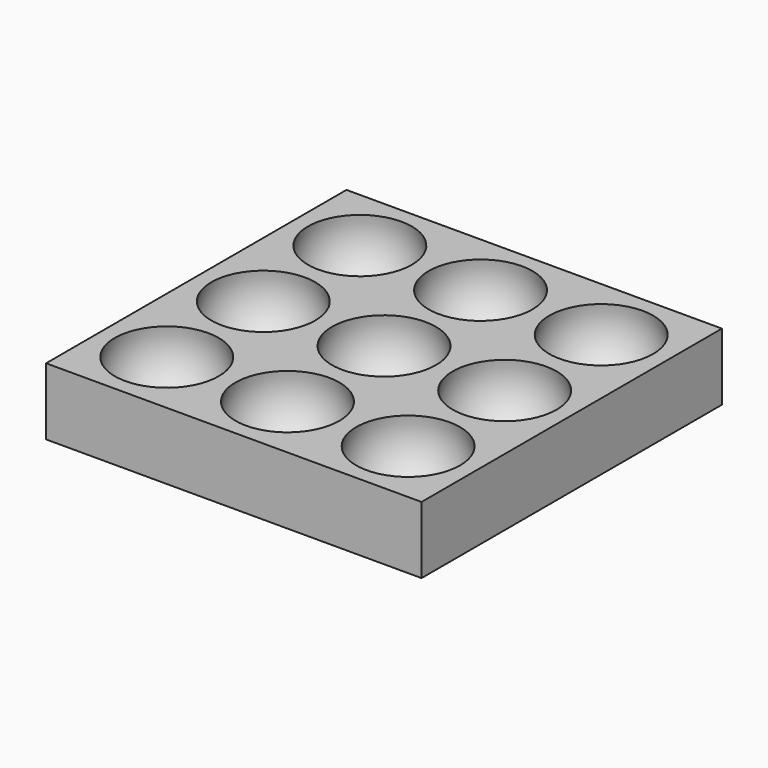
from build123d import *

# Parameters (mm, degrees)
ARRAY_X_COUNT = 3
ARRAY_X_PITCH = 18
ARRAY_Y_COUNT = 3
ARRAY_Y_PITCH = 18
BOX_W         = 56
BOX_H         = 56
BOX_DEPTH     = 10


with BuildPart() as array:
    # Sphere → Sphere (revolve)
    with BuildSketch(Plane(origin=(0, 0, 8), x_dir=(1, 0, 0), z_dir=(0, -1, 0))):
        with BuildLine():
            ThreePointArc((0, -8), (8, 0), (0, 8))
            Line((0, 8), (0, -8))
        make_face()
    revolve(axis=Axis((0, 0, 8), (0, 0, 1)))

    # Array X: Array ×3


with BuildPart() as array_1:
    add(array.part)
    with Locations(*[(i * ARRAY_X_PITCH, 0, 0) for i in range(1, ARRAY_X_COUNT)]):
        add(array.part)

    # Array Y: Array ×3


with BuildPart() as array_2:
    add(array_1.part)
    with Locations(*[(0, i * ARRAY_Y_PITCH, 0) for i in range(1, ARRAY_Y_COUNT)]):
        add(array_1.part)


with BuildPart() as cut:
    # Box → Box (new body)
    with BuildSketch(Plane(origin=(-10, -10, 0), x_dir=(1, 0, 0), z_dir=(0, 0, 1))):
        with Locations((28, 28)):
            Rectangle(BOX_W, BOX_H)
    extrude(amount=BOX_DEPTH)

    # Cut: cut Array
    add(array_2.part, mode=Mode.SUBTRACT)


solid = cut.part
